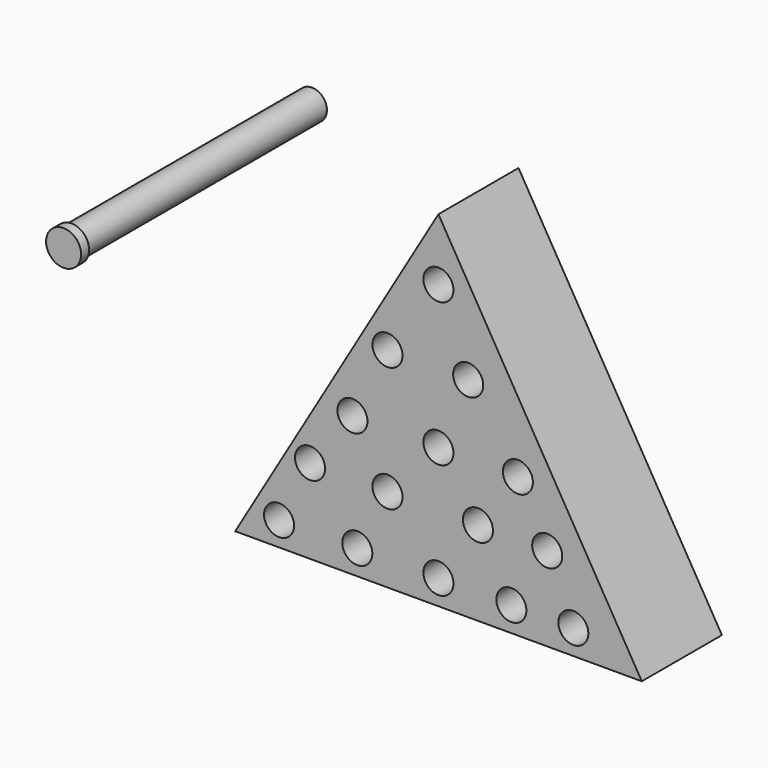
from build123d import *

# Parameters (mm, degrees)
F1_DEPTH = 25.4
F2_R     = 3.81
F3_DEPTH = 19.05
F4_R     = 3.81
F5_DEPTH = 76.2
F6_R     = 4.445
F7_DEPTH = 2.54


with BuildPart() as f1:
    # F0 (on Front) → F1 (new body)
    with BuildSketch(Plane.XZ):
        Polygon((51.592913, -38.010372), (0, 49.515232), (-51.542935, -38.039812), align=None)
    extrude(amount=F1_DEPTH)

    # F2 (on face) → F3 (cut)
    with BuildSketch(Plane.XZ.offset(25.4)):
        with Locations((0, 33.802673)):
            Circle(F2_R)
        with Locations((-12.921512, 14.988953)):
            Circle(F2_R)
        with Locations((7.546162, 14.988953)):
            Circle(F2_R)
        with Locations((-21.811511, -2.584302)):
            Circle(F2_R)
        with Locations((0, -2.584302)):
            Circle(F2_R)
        with Locations((20.157559, -2.584302)):
            Circle(F2_R)
        with Locations((-32.562207, -16.642908)):
            Circle(F2_R)
        with Locations((-12.921512, -16.642908)):
            Circle(F2_R)
        with Locations((10.027092, -16.642908)):
            Circle(F2_R)
        with Locations((27.600348, -16.642908)):
            Circle(F2_R)
        with Locations((-40.418487, -31.941976)):
            Circle(F2_R)
        with Locations((-20.571047, -31.735234)):
            Circle(F2_R)
        with Locations((0, -31.735234)):
            Circle(F2_R)
        with Locations((18.503606, -31.735234)):
            Circle(F2_R)
        with Locations((34.216166, -31.735234)):
            Circle(F2_R)
    extrude(amount=-F3_DEPTH, mode=Mode.SUBTRACT)


with BuildPart() as f5:
    # F4 (on Front) → F5 (new body)
    with BuildSketch(Plane.XZ):
        with Locations((-52.409653, 46.620812)):
            Circle(F4_R)
    extrude(amount=F5_DEPTH)

    # F6 (on face) → F7 (join)
    with BuildSketch(Plane.XZ.offset(76.2)):
        with Locations((-52.409653, 46.620812)):
            Circle(F6_R)
    extrude(amount=F7_DEPTH)


solid = Compound([f1.part, f5.part])
